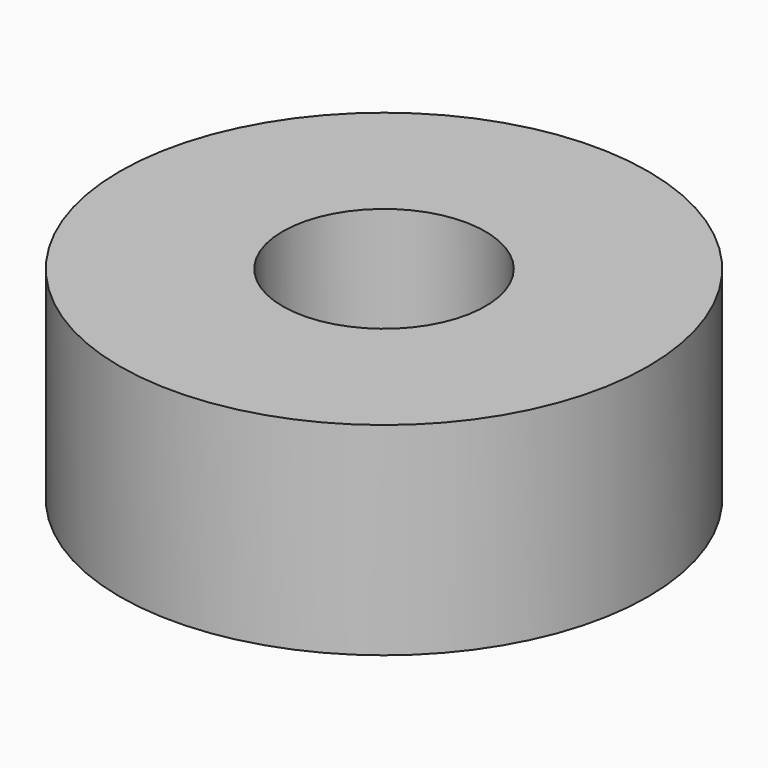
from build123d import *

# Parameters (mm, degrees)
F0_R     = 33.0910363523
F1_DEPTH = 25.4
F3_D     = 25.4
F4_T     = -2.54


with BuildPart() as f1:
    # F0 (on Top) → F1 (new body)
    with BuildSketch(Plane.XY):
        with Locations((-2.0184996538, 9.1803725809)):
            Circle(F0_R)
    extrude(amount=F1_DEPTH)

    # F3 (through all)
    with Locations(Plane.XY.offset(25.4)):
        with Locations((-2.0184996538, 9.1803725809)):
            Hole(F3_D / 2)

    # F4
    f4_openings = [f1.faces().sort_by_distance(p)[0] for p in [
        (-34.17358, 9.180373, 0),
    ]]
    offset(amount=F4_T, openings=f4_openings)


solid = f1.part
